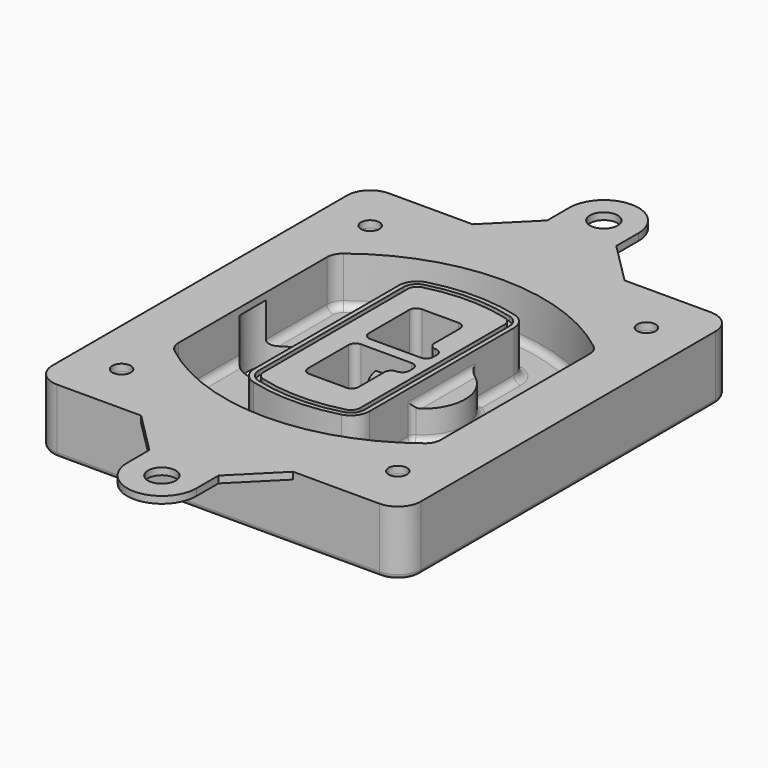
from build123d import *

# Parameters (mm, degrees)
F0_R      = 4
F1_DEPTH  = 25
F2_DEPTH  = 3
F3_DEPTH  = 18
F5_DEPTH  = 21
F6_DEPTH  = 2
F8_DEPTH  = 20
F9_DEPTH  = 16
F10_DEPTH = 25
F7_R      = 6
F7_R_2    = 4
F11_DEPTH = 6
F13_DEPTH = 9
F14_R     = 3
F15_R     = 2
F16_R     = 4
F17_R     = 6
F18_DEPTH = 3


with BuildPart() as f1:
    # F0 (on Top) → F1 (new body)
    with BuildSketch(Plane.XY):
        with BuildLine():
            ThreePointArc((-80, -80), (-77.0710678119, -87.0710678119), (-70, -90))
            Line((-70, -90), (70, -90))
            ThreePointArc((70, -90), (77.0710678119, -87.0710678119), (80, -80))
            Line((80, -80), (80, 80))
            ThreePointArc((80, 80), (77.0710678119, 87.0710678119), (70, 90))
            Line((70, 90), (-70, 90))
            ThreePointArc((-70, 90), (-77.0710678119, 87.0710678119), (-80, 80))
            Line((-80, 80), (-80, -80))
        make_face()
        with Locations((-60, -67.5)):
            Circle(F0_R, mode=Mode.SUBTRACT)
        with Locations((60, -67.5)):
            Circle(F0_R, mode=Mode.SUBTRACT)
        with BuildLine():
            ThreePointArc((-64, 40.2934422872), (-62.5820384798, 46.4328484224), (-58.6153846154, 51.3286200352))
            ThreePointArc((-58.6153846154, 51.3286200352), (0, 71.5), (58.6153846154, 51.3286200352))
            ThreePointArc((58.6153846154, 51.3286200352), (62.5820384798, 46.4328484224), (64, 40.2934422872))
            Line((64, 40.2934422872), (64, -40.2934422872))
            ThreePointArc((64, -40.2934422872), (62.5820384798, -46.4328484224), (58.6153846154, -51.3286200352))
            ThreePointArc((58.6153846154, -51.3286200352), (0, -71.5), (-58.6153846154, -51.3286200352))
            ThreePointArc((-58.6153846154, -51.3286200352), (-62.5820384798, -46.4328484224), (-64, -40.2934422872))
            Line((-64, -40.2934422872), (-64, 40.2934422872))
        make_face(mode=Mode.SUBTRACT)
        with Locations((-60, 67.5)):
            Circle(F0_R, mode=Mode.SUBTRACT)
        with Locations((60, 67.5)):
            Circle(F0_R, mode=Mode.SUBTRACT)
        with BuildLine():
            ThreePointArc((58.6153846154, 51.3286200352), (0, 71.5), (-58.6153846154, 51.3286200352))
            ThreePointArc((-58.6153846154, 51.3286200352), (-62.5820384798, 46.4328484224), (-64, 40.2934422872))
            Line((-64, 40.2934422872), (-64, -40.2934422872))
            ThreePointArc((-64, -40.2934422872), (-62.5820384798, -46.4328484224), (-58.6153846154, -51.3286200352))
            ThreePointArc((-58.6153846154, -51.3286200352), (0, -71.5), (58.6153846154, -51.3286200352))
            ThreePointArc((58.6153846154, -51.3286200352), (62.5820384798, -46.4328484224), (64, -40.2934422872))
            Line((64, -40.2934422872), (64, 40.2934422872))
            ThreePointArc((64, 40.2934422872), (62.5820384798, 46.4328484224), (58.6153846154, 51.3286200352))
        make_face()
        with BuildLine():
            Line((-60, -40.2934422872), (-60, 40.2934422872))
            ThreePointArc((-60, 40.2934422872), (-58.9871703427, 44.6787323838), (-56.1538461538, 48.1757121072))
            ThreePointArc((-56.1538461538, 48.1757121072), (0, 67.5), (56.1538461538, 48.1757121072))
            ThreePointArc((56.1538461538, 48.1757121072), (58.9871703427, 44.6787323838), (60, 40.2934422872))
            Line((60, 40.2934422872), (60, -40.2934422872))
            ThreePointArc((60, -40.2934422872), (58.9871703427, -44.6787323838), (56.1538461538, -48.1757121072))
            ThreePointArc((56.1538461538, -48.1757121072), (0, -67.5), (-56.1538461538, -48.1757121072))
            ThreePointArc((-56.1538461538, -48.1757121072), (-58.9871703427, -44.6787323838), (-60, -40.2934422872))
        make_face(mode=Mode.SUBTRACT)
        with BuildLine():
            ThreePointArc((-56.1538461538, 48.1757121072), (-58.9871703427, 44.6787323838), (-60, 40.2934422872))
            Line((-60, 40.2934422872), (-60, -40.2934422872))
            ThreePointArc((-60, -40.2934422872), (-58.9871703427, -44.6787323838), (-56.1538461538, -48.1757121072))
            ThreePointArc((-56.1538461538, -48.1757121072), (0, -67.5), (56.1538461538, -48.1757121072))
            ThreePointArc((56.1538461538, -48.1757121072), (58.9871703427, -44.6787323838), (60, -40.2934422872))
            Line((60, -40.2934422872), (60, 40.2934422872))
            ThreePointArc((60, 40.2934422872), (58.9871703427, 44.6787323838), (56.1538461538, 48.1757121072))
            ThreePointArc((56.1538461538, 48.1757121072), (0, 67.5), (-56.1538461538, 48.1757121072))
        make_face()
        with BuildLine():
            ThreePointArc((54.3076923077, 45.8110311612), (56.2910192399, 43.3631453548), (57, 40.2934422872))
            Line((57, 40.2934422872), (57, -40.2934422872))
            ThreePointArc((57, -40.2934422872), (56.2910192399, -43.3631453548), (54.3076923077, -45.8110311612))
            ThreePointArc((54.3076923077, -45.8110311612), (0, -64.5), (-54.3076923077, -45.8110311612))
            ThreePointArc((-54.3076923077, -45.8110311612), (-56.2910192399, -43.3631453548), (-57, -40.2934422872))
            Line((-57, -40.2934422872), (-57, 40.2934422872))
            ThreePointArc((-57, 40.2934422872), (-56.2910192399, 43.3631453548), (-54.3076923077, 45.8110311612))
            ThreePointArc((-54.3076923077, 45.8110311612), (0, 64.5), (54.3076923077, 45.8110311612))
        make_face(mode=Mode.SUBTRACT)
        with BuildLine():
            Line((57, -40.2934422872), (57, 40.2934422872))
            ThreePointArc((57, 40.2934422872), (56.2910192399, 43.3631453548), (54.3076923077, 45.8110311612))
            ThreePointArc((54.3076923077, 45.8110311612), (0, 64.5), (-54.3076923077, 45.8110311612))
            ThreePointArc((-54.3076923077, 45.8110311612), (-56.2910192399, 43.3631453548), (-57, 40.2934422872))
            Line((-57, 40.2934422872), (-57, -40.2934422872))
            ThreePointArc((-57, -40.2934422872), (-56.2910192399, -43.3631453548), (-54.3076923077, -45.8110311612))
            ThreePointArc((-54.3076923077, -45.8110311612), (0, -64.5), (54.3076923077, -45.8110311612))
            ThreePointArc((54.3076923077, -45.8110311612), (56.2910192399, -43.3631453548), (57, -40.2934422872))
        make_face()
    extrude(amount=-F1_DEPTH)

    # F0 (on Top) → F2 (join)
    with BuildSketch(Plane.XY):
        with BuildLine():
            ThreePointArc((-56.1538461538, 48.1757121072), (-58.9871703427, 44.6787323838), (-60, 40.2934422872))
            Line((-60, 40.2934422872), (-60, -40.2934422872))
            ThreePointArc((-60, -40.2934422872), (-58.9871703427, -44.6787323838), (-56.1538461538, -48.1757121072))
            ThreePointArc((-56.1538461538, -48.1757121072), (0, -67.5), (56.1538461538, -48.1757121072))
            ThreePointArc((56.1538461538, -48.1757121072), (58.9871703427, -44.6787323838), (60, -40.2934422872))
            Line((60, -40.2934422872), (60, 40.2934422872))
            ThreePointArc((60, 40.2934422872), (58.9871703427, 44.6787323838), (56.1538461538, 48.1757121072))
            ThreePointArc((56.1538461538, 48.1757121072), (0, 67.5), (-56.1538461538, 48.1757121072))
        make_face()
        with BuildLine():
            ThreePointArc((54.3076923077, 45.8110311612), (56.2910192399, 43.3631453548), (57, 40.2934422872))
            Line((57, 40.2934422872), (57, -40.2934422872))
            ThreePointArc((57, -40.2934422872), (56.2910192399, -43.3631453548), (54.3076923077, -45.8110311612))
            ThreePointArc((54.3076923077, -45.8110311612), (0, -64.5), (-54.3076923077, -45.8110311612))
            ThreePointArc((-54.3076923077, -45.8110311612), (-56.2910192399, -43.3631453548), (-57, -40.2934422872))
            Line((-57, -40.2934422872), (-57, 40.2934422872))
            ThreePointArc((-57, 40.2934422872), (-56.2910192399, 43.3631453548), (-54.3076923077, 45.8110311612))
            ThreePointArc((-54.3076923077, 45.8110311612), (0, 64.5), (54.3076923077, 45.8110311612))
        make_face(mode=Mode.SUBTRACT)
    extrude(amount=F2_DEPTH)

    # F0 (on Top) → F3 (cut)
    with BuildSketch(Plane.XY):
        with BuildLine():
            Line((57, -40.2934422872), (57, 40.2934422872))
            ThreePointArc((57, 40.2934422872), (56.2910192399, 43.3631453548), (54.3076923077, 45.8110311612))
            ThreePointArc((54.3076923077, 45.8110311612), (0, 64.5), (-54.3076923077, 45.8110311612))
            ThreePointArc((-54.3076923077, 45.8110311612), (-56.2910192399, 43.3631453548), (-57, 40.2934422872))
            Line((-57, 40.2934422872), (-57, -40.2934422872))
            ThreePointArc((-57, -40.2934422872), (-56.2910192399, -43.3631453548), (-54.3076923077, -45.8110311612))
            ThreePointArc((-54.3076923077, -45.8110311612), (0, -64.5), (54.3076923077, -45.8110311612))
            ThreePointArc((54.3076923077, -45.8110311612), (56.2910192399, -43.3631453548), (57, -40.2934422872))
        make_face()
    extrude(amount=-F3_DEPTH, mode=Mode.SUBTRACT)

    # F4 (on face) → F5 (join, through all)
    with BuildSketch(Plane.XY.offset(3)):
        with BuildLine():
            ThreePointArc((-25, -39.2465276821), (-23.3511545998, -44.1109737193), (-19.0842911877, -46.9702398883))
            ThreePointArc((-19.0842911877, -46.9702398883), (0, -49.5), (19.0842911877, -46.9702398883))
            ThreePointArc((19.0842911877, -46.9702398883), (23.3511545998, -44.1109737193), (25, -39.2465276821))
            Line((25, -39.2465276821), (25, 39.2465276821))
            ThreePointArc((25, 39.2465276821), (23.3511545998, 44.1109737193), (19.0842911877, 46.9702398883))
            ThreePointArc((19.0842911877, 46.9702398883), (0, 49.5), (-19.0842911877, 46.9702398883))
            ThreePointArc((-19.0842911877, 46.9702398883), (-23.3511545998, 44.1109737193), (-25, 39.2465276821))
            Line((-25, 39.2465276821), (-25, -39.2465276821))
        make_face()
        with BuildLine():
            ThreePointArc((18.5632183908, 45.0393118368), (21.7633659499, 42.89486221), (23, 39.2465276821))
            Line((23, 39.2465276821), (23, -39.2465276821))
            ThreePointArc((23, -39.2465276821), (21.7633659499, -42.89486221), (18.5632183908, -45.0393118368))
            ThreePointArc((18.5632183908, -45.0393118368), (0, -47.5), (-18.5632183908, -45.0393118368))
            ThreePointArc((-18.5632183908, -45.0393118368), (-21.7633659499, -42.89486221), (-23, -39.2465276821))
            Line((-23, -39.2465276821), (-23, 39.2465276821))
            ThreePointArc((-23, 39.2465276821), (-21.7633659499, 42.89486221), (-18.5632183908, 45.0393118368))
            ThreePointArc((-18.5632183908, 45.0393118368), (0, 47.5), (18.5632183908, 45.0393118368))
        make_face(mode=Mode.SUBTRACT)
        with BuildLine():
            Line((23, -39.2465276821), (23, 39.2465276821))
            ThreePointArc((23, 39.2465276821), (21.7633659499, 42.89486221), (18.5632183908, 45.0393118368))
            ThreePointArc((18.5632183908, 45.0393118368), (0, 47.5), (-18.5632183908, 45.0393118368))
            ThreePointArc((-18.5632183908, 45.0393118368), (-21.7633659499, 42.89486221), (-23, 39.2465276821))
            Line((-23, 39.2465276821), (-23, -39.2465276821))
            ThreePointArc((-23, -39.2465276821), (-21.7633659499, -42.89486221), (-18.5632183908, -45.0393118368))
            ThreePointArc((-18.5632183908, -45.0393118368), (0, -47.5), (18.5632183908, -45.0393118368))
            ThreePointArc((18.5632183908, -45.0393118368), (21.7633659499, -42.89486221), (23, -39.2465276821))
        make_face()
        with BuildLine():
            ThreePointArc((18.0421455939, 43.1083837852), (20.1755772999, 41.6787507007), (21, 39.2465276821))
            Line((21, 39.2465276821), (21, -39.2465276821))
            ThreePointArc((21, -39.2465276821), (20.1755772999, -41.6787507007), (18.0421455939, -43.1083837852))
            ThreePointArc((18.0421455939, -43.1083837852), (0, -45.5), (-18.0421455939, -43.1083837852))
            ThreePointArc((-18.0421455939, -43.1083837852), (-20.1755772999, -41.6787507007), (-21, -39.2465276821))
            Line((-21, -39.2465276821), (-21, 39.2465276821))
            ThreePointArc((-21, 39.2465276821), (-20.1755772999, 41.6787507007), (-18.0421455939, 43.1083837852))
            ThreePointArc((-18.0421455939, 43.1083837852), (0, 45.5), (18.0421455939, 43.1083837852))
        make_face(mode=Mode.SUBTRACT)
        with BuildLine():
            Line((21, -39.2465276821), (21, 39.2465276821))
            ThreePointArc((21, 39.2465276821), (20.1755772999, 41.6787507007), (18.0421455939, 43.1083837852))
            ThreePointArc((18.0421455939, 43.1083837852), (0, 45.5), (-18.0421455939, 43.1083837852))
            ThreePointArc((-18.0421455939, 43.1083837852), (-20.1755772999, 41.6787507007), (-21, 39.2465276821))
            Line((-21, 39.2465276821), (-21, -39.2465276821))
            ThreePointArc((-21, -39.2465276821), (-20.1755772999, -41.6787507007), (-18.0421455939, -43.1083837852))
            ThreePointArc((-18.0421455939, -43.1083837852), (0, -45.5), (18.0421455939, -43.1083837852))
            ThreePointArc((18.0421455939, -43.1083837852), (20.1755772999, -41.6787507007), (21, -39.2465276821))
        make_face()
        with BuildLine():
            Line((-8, -2.5), (14, -2.5))
            ThreePointArc((14, -2.5), (16.1213203436, -3.3786796564), (17, -5.5))
            Line((17, -5.5), (17, -7.5))
            ThreePointArc((17, -7.5), (16.1213203436, -9.6213203436), (14, -10.5))
            ThreePointArc((14, -10.5), (11.8786796564, -11.3786796564), (11, -13.5))
            Line((11, -13.5), (11, -27.5))
            ThreePointArc((11, -27.5), (10.1213203436, -29.6213203436), (8, -30.5))
            Line((8, -30.5), (-8, -30.5))
            ThreePointArc((-8, -30.5), (-10.1213203436, -29.6213203436), (-11, -27.5))
            Line((-11, -27.5), (-11, -5.5))
            ThreePointArc((-11, -5.5), (-10.1213203436, -3.3786796564), (-8, -2.5))
        make_face(mode=Mode.SUBTRACT)
        with BuildLine():
            ThreePointArc((-8, 2.5), (-10.1213203436, 3.3786796564), (-11, 5.5))
            Line((-11, 5.5), (-11, 27.5))
            ThreePointArc((-11, 27.5), (-10.1213203436, 29.6213203436), (-8, 30.5))
            Line((-8, 30.5), (8, 30.5))
            ThreePointArc((8, 30.5), (10.1213203436, 29.6213203436), (11, 27.5))
            Line((11, 27.5), (11, 13.5))
            ThreePointArc((11, 13.5), (11.8786796564, 11.3786796564), (14, 10.5))
            ThreePointArc((14, 10.5), (16.1213203436, 9.6213203436), (17, 7.5))
            Line((17, 7.5), (17, 5.5))
            ThreePointArc((17, 5.5), (16.1213203436, 3.3786796564), (14, 2.5))
            Line((14, 2.5), (-8, 2.5))
        make_face(mode=Mode.SUBTRACT)
    extrude(amount=-F5_DEPTH)

    # F4 (on face) → F6 (cut)
    with BuildSketch(Plane.XY.offset(3)):
        with BuildLine():
            Line((23, -39.2465276821), (23, 39.2465276821))
            ThreePointArc((23, 39.2465276821), (21.7633659499, 42.89486221), (18.5632183908, 45.0393118368))
            ThreePointArc((18.5632183908, 45.0393118368), (0, 47.5), (-18.5632183908, 45.0393118368))
            ThreePointArc((-18.5632183908, 45.0393118368), (-21.7633659499, 42.89486221), (-23, 39.2465276821))
            Line((-23, 39.2465276821), (-23, -39.2465276821))
            ThreePointArc((-23, -39.2465276821), (-21.7633659499, -42.89486221), (-18.5632183908, -45.0393118368))
            ThreePointArc((-18.5632183908, -45.0393118368), (0, -47.5), (18.5632183908, -45.0393118368))
            ThreePointArc((18.5632183908, -45.0393118368), (21.7633659499, -42.89486221), (23, -39.2465276821))
        make_face()
        with BuildLine():
            ThreePointArc((18.0421455939, 43.1083837852), (20.1755772999, 41.6787507007), (21, 39.2465276821))
            Line((21, 39.2465276821), (21, -39.2465276821))
            ThreePointArc((21, -39.2465276821), (20.1755772999, -41.6787507007), (18.0421455939, -43.1083837852))
            ThreePointArc((18.0421455939, -43.1083837852), (0, -45.5), (-18.0421455939, -43.1083837852))
            ThreePointArc((-18.0421455939, -43.1083837852), (-20.1755772999, -41.6787507007), (-21, -39.2465276821))
            Line((-21, -39.2465276821), (-21, 39.2465276821))
            ThreePointArc((-21, 39.2465276821), (-20.1755772999, 41.6787507007), (-18.0421455939, 43.1083837852))
            ThreePointArc((-18.0421455939, 43.1083837852), (0, 45.5), (18.0421455939, 43.1083837852))
        make_face(mode=Mode.SUBTRACT)
    extrude(amount=-F6_DEPTH, mode=Mode.SUBTRACT)

    # F7 (on face) → F8 (join)
    with BuildSketch(Plane(origin=(0, 0, -25), x_dir=(1, 0, 0), z_dir=(0, 0, -1))):
        with BuildLine():
            ThreePointArc((3.28842436, 0), (16.7567035675, 13.4682792075), (30.224982775, 0))
            Line((30.224982775, 0), (35.224982775, 0))
            ThreePointArc((35.224982775, 0), (16.7567035675, 18.4682792075), (-1.71157564, 0))
            Line((-1.71157564, 0), (3.28842436, 0))
        make_face()
        with BuildLine():
            Line((3.28842436, 0), (30.224982775, 0))
            ThreePointArc((30.224982775, 0), (16.7567035675, 13.4682792075), (3.28842436, 0))
        make_face()
        with BuildLine():
            ThreePointArc((3.28842436, 0), (16.7567035675, -13.4682792075), (30.224982775, 0))
            Line((30.224982775, 0), (3.28842436, 0))
        make_face()
        with BuildLine():
            Line((35.224982775, 0), (30.224982775, 0))
            ThreePointArc((30.224982775, 0), (16.7567035675, -13.4682792075), (3.28842436, 0))
            Line((3.28842436, 0), (-1.71157564, 0))
            ThreePointArc((-1.71157564, 0), (16.7567035675, -18.4682792075), (35.224982775, 0))
        make_face()
    extrude(amount=-F8_DEPTH)

    # F7 (on face) → F9 (cut)
    with BuildSketch(Plane(origin=(0, 0, -25), x_dir=(1, 0, 0), z_dir=(0, 0, -1))):
        with BuildLine():
            Line((3.28842436, 0), (30.224982775, 0))
            ThreePointArc((30.224982775, 0), (16.7567035675, 13.4682792075), (3.28842436, 0))
        make_face()
        with BuildLine():
            ThreePointArc((3.28842436, 0), (16.7567035675, -13.4682792075), (30.224982775, 0))
            Line((30.224982775, 0), (3.28842436, 0))
        make_face()
    extrude(amount=-F9_DEPTH, mode=Mode.SUBTRACT)

    # F7 (on face) → F10 (cut)
    with BuildSketch(Plane(origin=(0, 0, -25), x_dir=(1, 0, 0), z_dir=(0, 0, -1))):
        with BuildLine():
            Line((-59.0318229325, 0), (-32.0952645175, 0))
            ThreePointArc((-32.0952645175, 0), (-45.563543725, 13.4682792075), (-59.0318229325, 0))
        make_face()
        with BuildLine():
            ThreePointArc((-59.0318229325, 0), (-45.563543725, -13.4682792075), (-32.0952645175, 0))
            Line((-32.0952645175, 0), (-59.0318229325, 0))
        make_face()
    extrude(amount=-F10_DEPTH, mode=Mode.SUBTRACT)

    # F7 (on face) → F11 (cut)
    with BuildSketch(Plane(origin=(0, 0, -25), x_dir=(1, 0, 0), z_dir=(0, 0, -1))):
        with Locations((60, -67.5)):
            Circle(F7_R)
        with Locations((60, -67.5)):
            Circle(F7_R_2, mode=Mode.SUBTRACT)
        with Locations((60, -67.5)):
            Circle(F7_R)
        with Locations((60, -67.5)):
            Circle(F7_R_2, mode=Mode.SUBTRACT)
        with Locations((-60, -67.5)):
            Circle(F7_R)
        with Locations((-60, -67.5)):
            Circle(F7_R_2, mode=Mode.SUBTRACT)
        with Locations((-60, -67.5)):
            Circle(F7_R)
        with Locations((-60, -67.5)):
            Circle(F7_R_2, mode=Mode.SUBTRACT)
        with Locations((-60, 67.5)):
            Circle(F7_R)
        with Locations((-60, 67.5)):
            Circle(F7_R_2, mode=Mode.SUBTRACT)
        with Locations((-60, 67.5)):
            Circle(F7_R)
        with Locations((-60, 67.5)):
            Circle(F7_R_2, mode=Mode.SUBTRACT)
        with Locations((60, 67.5)):
            Circle(F7_R)
        with Locations((60, 67.5)):
            Circle(F7_R_2, mode=Mode.SUBTRACT)
        with Locations((60, 67.5)):
            Circle(F7_R)
        with Locations((60, 67.5)):
            Circle(F7_R_2, mode=Mode.SUBTRACT)
    extrude(amount=-F11_DEPTH, mode=Mode.SUBTRACT)

    # F12 (on face) → F13 (cut, through all)
    with BuildSketch(Plane(origin=(0, 0, -9), x_dir=(1, 0, 0), z_dir=(0, 0, -1))):
        with BuildLine():
            Line((11, 13.5), (11, 17.5481537753))
            ThreePointArc((11, 17.5481537753), (2.5696536419, 11.8239143813), (-1.5415842455, 2.5))
            Line((-1.5415842455, 2.5), (3.5224848595, 2.5))
            ThreePointArc((3.5224848595, 2.5), (6.1857188154, 8.3455872281), (11.2536447004, 12.2927168648))
            ThreePointArc((11.2536447004, 12.2927168648), (11.0640958889, 12.8831798879), (11, 13.5))
        make_face()
        with BuildLine():
            ThreePointArc((11.2536447004, -12.2927168648), (6.1857188154, -8.3455872281), (3.5224848595, -2.5))
            Line((3.5224848595, -2.5), (-1.5415842455, -2.5))
            ThreePointArc((-1.5415842455, -2.5), (2.5696536419, -11.8239143813), (11, -17.5481537753))
            Line((11, -17.5481537753), (11, -13.5))
            ThreePointArc((11, -13.5), (11.0640958889, -12.8831798879), (11.2536447004, -12.2927168648))
        make_face()
        with BuildLine():
            ThreePointArc((11.2536447004, 12.2927168648), (6.1857188154, 8.3455872281), (3.5224848595, 2.5))
            Line((3.5224848595, 2.5), (14, 2.5))
            ThreePointArc((14, 2.5), (16.1213203436, 3.3786796564), (17, 5.5))
            Line((17, 5.5), (17, 7.5))
            ThreePointArc((17, 7.5), (16.1213203436, 9.6213203436), (14, 10.5))
            ThreePointArc((14, 10.5), (12.3601599782, 10.9878446101), (11.2536447004, 12.2927168648))
        make_face()
        with BuildLine():
            Line((14, -2.5), (3.5224848595, -2.5))
            ThreePointArc((3.5224848595, -2.5), (6.1857188154, -8.3455872281), (11.2536447004, -12.2927168648))
            ThreePointArc((11.2536447004, -12.2927168648), (12.3601599782, -10.9878446101), (14, -10.5))
            ThreePointArc((14, -10.5), (16.1213203436, -9.6213203436), (17, -7.5))
            Line((17, -7.5), (17, -5.5))
            ThreePointArc((17, -5.5), (16.1213203436, -3.3786796564), (14, -2.5))
        make_face()
    extrude(amount=F13_DEPTH, mode=Mode.SUBTRACT)

    # F14
    f14_edges = [f1.edges().sort_by_distance(p)[0] for p in [
        (-57, -23.703476, -18),
        (-57, 23.703476, -18),
        (25, 0, -5),
        (25, 16.526506, -11.5),
        (25, -16.526506, -11.5),
        (25, -27.886517, -18),
        (35.224983, 0, -18),
    ]]
    fillet(f14_edges, radius=F14_R)

    # F15
    f15_edges = [f1.edges().sort_by_distance(p)[0] for p in [
        (0, -90, -25),
    ]]
    fillet(f15_edges, radius=F15_R)

    # F16 (on face) + F17 (on face) → F18 (join, through all)
    with BuildSketch(Plane.XY):
        with BuildLine():
            Line((-80, 80), (-80, -80))
            ThreePointArc((-80, -80), (-77.0710678119, -87.0710678119), (-70, -90))
            Line((-70, -90), (70, -90))
            ThreePointArc((70, -90), (77.0710678119, -87.0710678119), (80, -80))
            Line((80, -80), (80, 80))
            ThreePointArc((80, 80), (77.0710678119, 87.0710678119), (70, 90))
            Line((70, 90), (-70, 90))
            ThreePointArc((-70, 90), (-77.0710678119, 87.0710678119), (-80, 80))
        make_face()
        with Locations((-60, -67.5)):
            Circle(F16_R, mode=Mode.SUBTRACT)
        with Locations((60, -67.5)):
            Circle(F16_R, mode=Mode.SUBTRACT)
        with Locations((-60, 67.5)):
            Circle(F16_R, mode=Mode.SUBTRACT)
        with BuildLine():
            ThreePointArc((-60, 40.2934422872), (-58.9871703427, 44.6787323838), (-56.1538461538, 48.1757121072))
            ThreePointArc((-56.1538461538, 48.1757121072), (0, 67.5), (56.1538461538, 48.1757121072))
            ThreePointArc((56.1538461538, 48.1757121072), (58.9871703427, 44.6787323838), (60, 40.2934422872))
            Line((60, 40.2934422872), (60, -40.2934422872))
            ThreePointArc((60, -40.2934422872), (58.9871703427, -44.6787323838), (56.1538461538, -48.1757121072))
            ThreePointArc((56.1538461538, -48.1757121072), (0, -67.5), (-56.1538461538, -48.1757121072))
            ThreePointArc((-56.1538461538, -48.1757121072), (-58.9871703427, -44.6787323838), (-60, -40.2934422872))
            Line((-60, -40.2934422872), (-60, 40.2934422872))
        make_face(mode=Mode.SUBTRACT)
        with Locations((60, 67.5)):
            Circle(F16_R, mode=Mode.SUBTRACT)
    with BuildSketch(Plane.XY):
        with BuildLine():
            Line((-15.5002051895, 108), (-33.5002051895, 90))
            Line((-33.5002051895, 90), (32.4997948105, 90))
            Line((32.4997948105, 90), (14.4997948105, 108))
            Line((14.4997948105, 108), (14.4997948105, 120))
            ThreePointArc((14.4997948105, 120), (-0.5002051895, 135), (-15.5002051895, 120))
            Line((-15.5002051895, 120), (-15.5002051895, 108))
        make_face()
        with Locations((-0.5002051895, 120)):
            Circle(F17_R, mode=Mode.SUBTRACT)
        with BuildLine():
            Line((32.4997948105, -90), (-33.5002051895, -90))
            Line((-33.5002051895, -90), (-15.5002051895, -108))
            Line((-15.5002051895, -108), (-15.5002051895, -120))
            ThreePointArc((-15.5002051895, -120), (-0.5002051895, -135), (14.4997948105, -120))
            Line((14.4997948105, -120), (14.4997948105, -108))
            Line((14.4997948105, -108), (32.4997948105, -90))
        make_face()
        with Locations((-0.5002051895, -120)):
            Circle(F17_R, mode=Mode.SUBTRACT)
    extrude(amount=F18_DEPTH)


solid = f1.part
